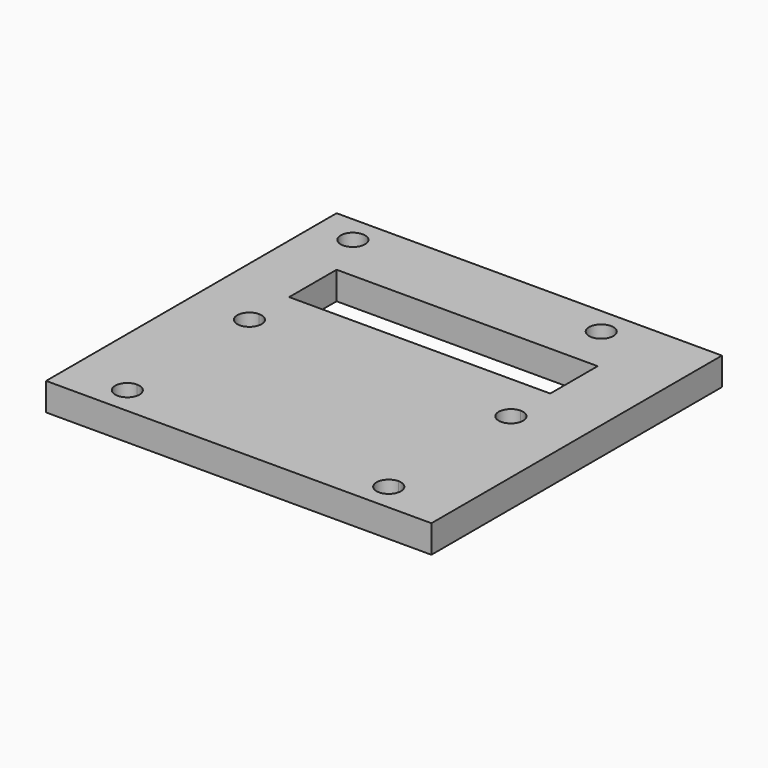
from build123d import *

# Parameters (mm, degrees)
F0_W     = 66.04
F0_H     = 62.23
F1_DEPTH = 4.7625
F2_R     = 2.0828
F2_W     = 23.6109700747
F2_H     = 10.16
F2_W_2   = 21.1328
F3_DEPTH = 25.4


with BuildPart() as f1:
    # F0 (on Top) → F1 (new body)
    with BuildSketch(Plane.XY):
        Rectangle(F0_W, F0_H)
    extrude(amount=F1_DEPTH)

    # F2 (on face) → F3 (cut)
    with BuildSketch(Plane.XY.offset(4.7625)):
        with Locations((-26.4963417654, 26.4567458333)):
            Circle(F2_R)
        with BuildLine():
            ThreePointArc((18.1444912354, 26.4567458333), (16.0616912354, 28.5395458333), (13.9788912354, 26.4567458333))
            ThreePointArc((13.9788912354, 26.4567458333), (16.0616912354, 24.3739458333), (18.1444912354, 26.4567458333))
        make_face()
        with BuildLine():
            ThreePointArc((24.0372912354, -0.2640541667), (23.4272532393, 1.2087078372), (21.9544912354, 1.8187458333))
            Line((21.9544912354, 1.8187458333), (21.9544912354, -2.3468541667))
            ThreePointArc((21.9544912354, -2.3468541667), (23.4272532393, -1.7368161705), (24.0372912354, -0.2640541667))
        make_face()
        with BuildLine():
            Line((21.9544912354, -2.3468541667), (21.9544912354, 1.8187458333))
            ThreePointArc((21.9544912354, 1.8187458333), (19.8716912354, -0.2640541667), (21.9544912354, -2.3468541667))
        make_face()
        with BuildLine():
            ThreePointArc((-20.7683087646, -0.2640541667), (-21.3783467607, 1.2087078372), (-22.8511087646, 1.8187458333))
            Line((-22.8511087646, 1.8187458333), (-22.8511087646, -2.3468541667))
            ThreePointArc((-22.8511087646, -2.3468541667), (-21.3783467607, -1.7368161705), (-20.7683087646, -0.2640541667))
        make_face()
        with BuildLine():
            Line((-22.8511087646, -2.3468541667), (-22.8511087646, 1.8187458333))
            ThreePointArc((-22.8511087646, 1.8187458333), (-24.9339087646, -0.2640541667), (-22.8511087646, -2.3468541667))
        make_face()
        with BuildLine():
            Line((-22.8511087646, -24.3432541667), (-22.8511087646, -28.5088541667))
            ThreePointArc((-22.8511087646, -28.5088541667), (-21.3783467607, -27.8988161705), (-20.7683087646, -26.4260541667))
            ThreePointArc((-20.7683087646, -26.4260541667), (-21.3783467607, -24.9532921628), (-22.8511087646, -24.3432541667))
        make_face()
        with BuildLine():
            ThreePointArc((-22.8511087646, -24.3432541667), (-24.9339087646, -26.4260541667), (-22.8511087646, -28.5088541667))
            Line((-22.8511087646, -28.5088541667), (-22.8511087646, -24.3432541667))
        make_face()
        with BuildLine():
            Line((21.9544912354, -24.3432541667), (21.9544912354, -28.5088541667))
            ThreePointArc((21.9544912354, -28.5088541667), (23.4272532393, -27.8988161705), (24.0372912354, -26.4260541667))
            ThreePointArc((24.0372912354, -26.4260541667), (23.4272532393, -24.9532921628), (21.9544912354, -24.3432541667))
        make_face()
        with BuildLine():
            ThreePointArc((21.9544912354, -24.3432541667), (19.8716912354, -26.4260541667), (21.9544912354, -28.5088541667))
            Line((21.9544912354, -28.5088541667), (21.9544912354, -24.3432541667))
        make_face()
        with Locations((-10.9837938019, 13.2487458333)):
            Rectangle(F2_W, F2_H)
        with Locations((11.3880912354, 13.2487458333)):
            Rectangle(F2_W_2, F2_H)
    extrude(amount=-F3_DEPTH, mode=Mode.SUBTRACT)


solid = f1.part
